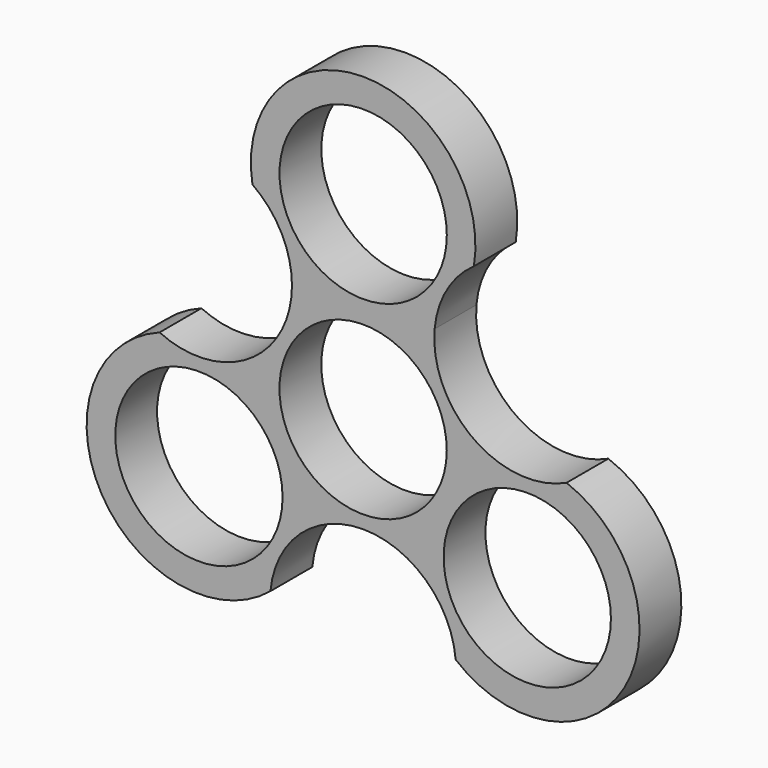
from build123d import *

# Parameters (mm, degrees)
F0_R     = 10.9728
F1_DEPTH = 6.858


with BuildPart() as f1:
    # F0 (on Front) → F1 (new body)
    with BuildSketch(Plane.XZ):
        with BuildLine():
            ThreePointArc((-14.516403, 22.408709), (-10.706617, 18.05056), (-9.33372, 12.42712))
            ThreePointArc((-9.33372, 12.42712), (-14.981524, 2.13408), (-26.697247, 1.368428))
            ThreePointArc((-26.697247, 1.368428), (-34.286249, -19.80297), (-12.149681, -23.777064))
            ThreePointArc((-12.149681, -23.777064), (-0.00323, -12.673219), (12.137558, -23.783254))
            ThreePointArc((12.137558, -23.783254), (34.280587, -19.812781), (26.681347, 1.361022))
            ThreePointArc((26.681347, 1.361022), (14.525692, 2.439006), (9.381425, 13.505104))
            ThreePointArc((9.381425, 13.505104), (10.970216, 18.531494), (14.530785, 22.418808))
            ThreePointArc((14.530785, 22.418808), (0.001217, 39.594253), (-14.516403, 22.408709))
        make_face()
        with Locations((-21.53708, -12.42712)):
            Circle(F0_R, mode=Mode.SUBTRACT)
        Circle(F0_R, mode=Mode.SUBTRACT)
        with Locations((21.530742, -12.438099)):
            Circle(F0_R, mode=Mode.SUBTRACT)
        with Locations((0.006338, 24.865219)):
            Circle(F0_R, mode=Mode.SUBTRACT)
    extrude(amount=F1_DEPTH)


solid = f1.part
